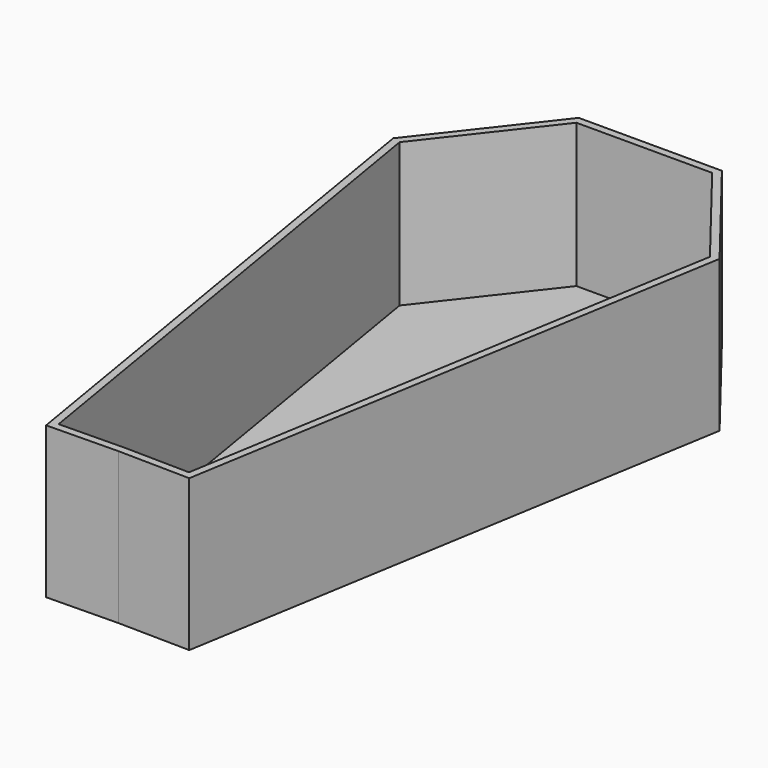
from build123d import *

# Parameters (mm, degrees)
F1_DEPTH = 25.4
F2_T     = -1.27


with BuildPart() as f1:
    # F0 (on Top) → F1 (new body)
    with BuildSketch(Plane.XY):
        Polygon((12.012586, 55.967729), (0, 55.967729), (-12.012586, 55.967729), (-27.383965, 36.260832), (-12.012586, -55.770375), (0, -55.573449), (12.012586, -55.770375), (27.383965, 36.260832), align=None)
    extrude(amount=-F1_DEPTH)

    # F2
    f2_openings = [f1.faces().sort_by_distance(p)[0] for p in [
        (0, 4.834347, 0),
    ]]
    offset(amount=F2_T, openings=f2_openings)


solid = f1.part
